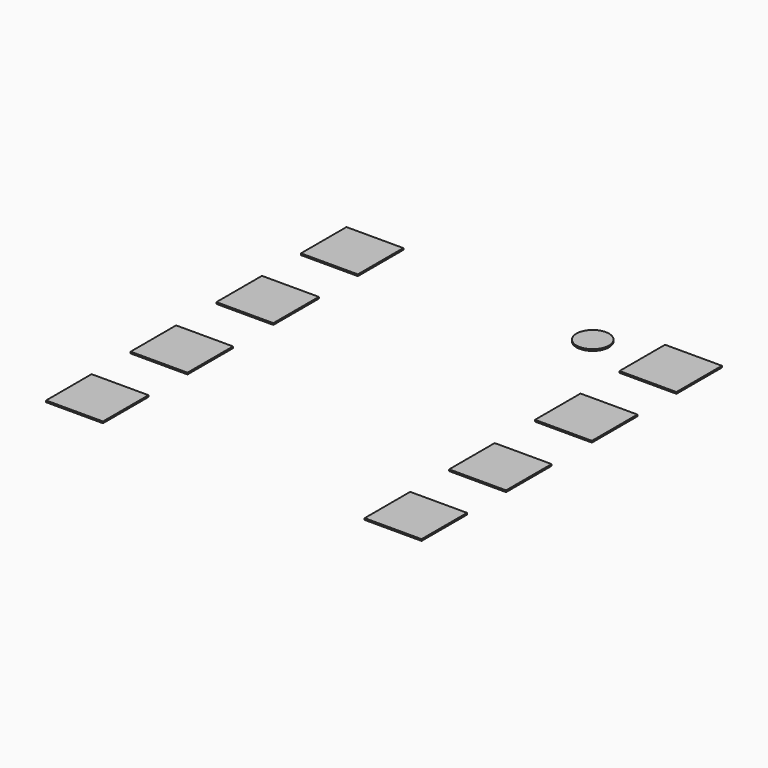
from build123d import *

# Parameters (mm, degrees)
SKETCH009_W  = 0.35
SKETCH009_H  = 0.35
PAD008_DEPTH = 0.01
SKETCH007_W  = 0.35
SKETCH007_H  = 0.35
PAD006_DEPTH = 0.01
SKETCH008_W  = 0.35
SKETCH008_H  = 0.35
PAD007_DEPTH = 0.01
SKETCH011_W  = 0.35
SKETCH011_H  = 0.35
PAD010_DEPTH = 0.01
SKETCH014_R  = 0.1
PAD013_DEPTH = 0.01
SKETCH012_W  = 0.35
SKETCH012_H  = 0.35
PAD011_DEPTH = 0.01
SKETCH010_W  = 0.35
SKETCH010_H  = 0.35
PAD009_DEPTH = 0.01
SKETCH013_W  = 0.35
SKETCH013_H  = 0.35
PAD012_DEPTH = 0.01
SKETCH006_W  = 0.35
SKETCH006_H  = 0.35
PAD005_DEPTH = 0.01


with BuildPart() as obj1:
    # Sketch009 → Pad008 (new body)
    with BuildSketch(Plane.XY):
        with Locations((-0.98, -0.98)):
            Rectangle(SKETCH009_W, SKETCH009_H)
    extrude(amount=-PAD008_DEPTH)


with BuildPart() as pad_7_gnd:
    # Sketch007 → Pad006 (new body)
    with BuildSketch(Plane.XY):
        with Locations((-0.98, 0.33)):
            Rectangle(SKETCH007_W, SKETCH007_H)
    extrude(amount=-PAD006_DEPTH)


with BuildPart() as obj2:
    # Sketch008 → Pad007 (new body)
    with BuildSketch(Plane.XY):
        with Locations((-0.98, -0.33)):
            Rectangle(SKETCH008_W, SKETCH008_H)
    extrude(amount=-PAD007_DEPTH)


with BuildPart() as obj3:
    # Sketch011 → Pad010 (new body)
    with BuildSketch(Plane.XY):
        with Locations((0.98, -0.33)):
            Rectangle(SKETCH011_W, SKETCH011_H)
    extrude(amount=-PAD010_DEPTH)


with BuildPart() as marker_pad:
    # Sketch014 → Pad013 (new body)
    with BuildSketch(Plane.XY):
        with Locations((0.5, 0.98)):
            Circle(SKETCH014_R)
    extrude(amount=-PAD013_DEPTH)


with BuildPart() as obj4:
    # Sketch012 → Pad011 (new body)
    with BuildSketch(Plane.XY):
        with Locations((0.98, 0.33)):
            Rectangle(SKETCH012_W, SKETCH012_H)
    extrude(amount=-PAD011_DEPTH)


with BuildPart() as obj5:
    # Sketch010 → Pad009 (new body)
    with BuildSketch(Plane.XY):
        with Locations((0.98, -0.98)):
            Rectangle(SKETCH010_W, SKETCH010_H)
    extrude(amount=-PAD009_DEPTH)


with BuildPart() as pad_1_gnd:
    # Sketch013 → Pad012 (new body)
    with BuildSketch(Plane.XY):
        with Locations((0.98, 0.98)):
            Rectangle(SKETCH013_W, SKETCH013_H)
    extrude(amount=-PAD012_DEPTH)


with BuildPart() as pads:
    # Sketch006 → Pad005 (new body)
    with BuildSketch(Plane.XY):
        with Locations((-0.98, 0.98)):
            Rectangle(SKETCH006_W, SKETCH006_H)
    extrude(amount=-PAD005_DEPTH)

    # Fusion: union obj1, pad_7_GND, obj2, obj3, marker_pad, obj4, obj5, pad_1_GND
    add(obj1.part)
    add(pad_7_gnd.part)
    add(obj2.part)
    add(obj3.part)
    add(marker_pad.part)
    add(obj4.part)
    add(obj5.part)
    add(pad_1_gnd.part)


solid = pads.part
